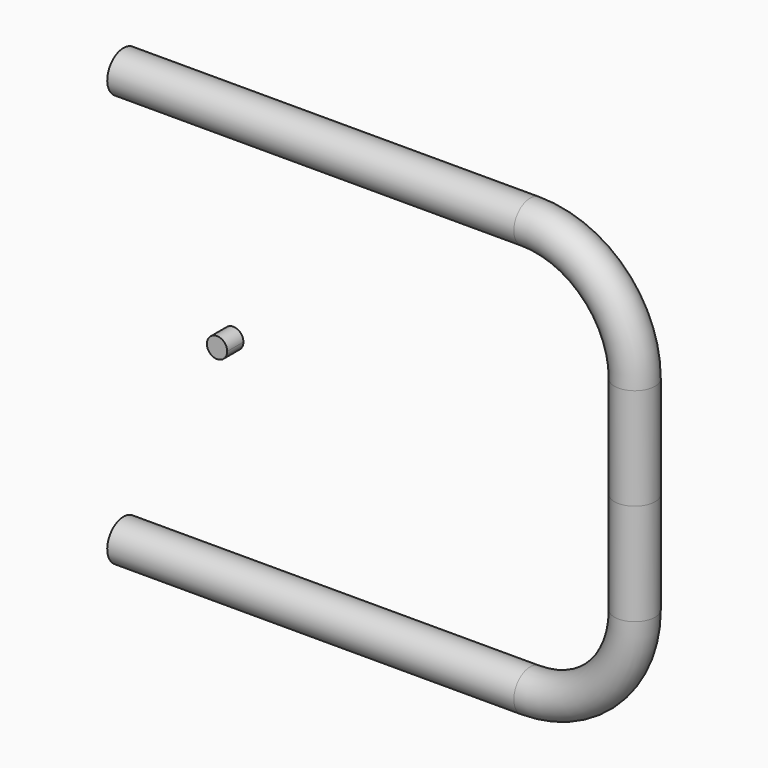
from build123d import *

# Parameters (mm, degrees)
F1_DEPTH = 5
F2_R     = 10


with BuildPart() as f1:
    # F0 (on Front) → F1 (new body, symmetric)
    with BuildSketch(Plane.XZ):
        with BuildLine():
            Line((0, -5), (0, 0))
            Line((0, 0), (5, 0))
            ThreePointArc((5, 0), (-3.535534, 3.535534), (0, -5))
        make_face()
        with BuildLine():
            Line((5, 0), (0, 0))
            Line((0, 0), (0, -5))
            ThreePointArc((0, -5), (3.535534, -3.535534), (5, 0))
        make_face()
    extrude(amount=F1_DEPTH, both=True)


with BuildPart() as f3:
    # F3: sweep along a path in F0
    with BuildLine(Plane.XZ) as f3_path:
        Line((200, 0), (200, -50))
        ThreePointArc((200, -50), (185.355339, -85.355339), (150, -100))
        Line((150, -100), (0, -100))
        Line((0, -100), (-50, -100))
    # F2 (on Top) → F3 (sweep)
    with BuildSketch(Plane.XY):
        with Locations((201.478779, 0)):
            Circle(F2_R)
    sweep(path=f3_path.line)

    # F4: F3 across face


with BuildPart() as f3_1:
    add(f3.part)
    add(f3.part.mirror(Plane(origin=(201.478779, 0, 0), x_dir=(1, 0, 0), z_dir=(0, 0, 1))))


solid = Compound([f1.part, f3_1.part])
